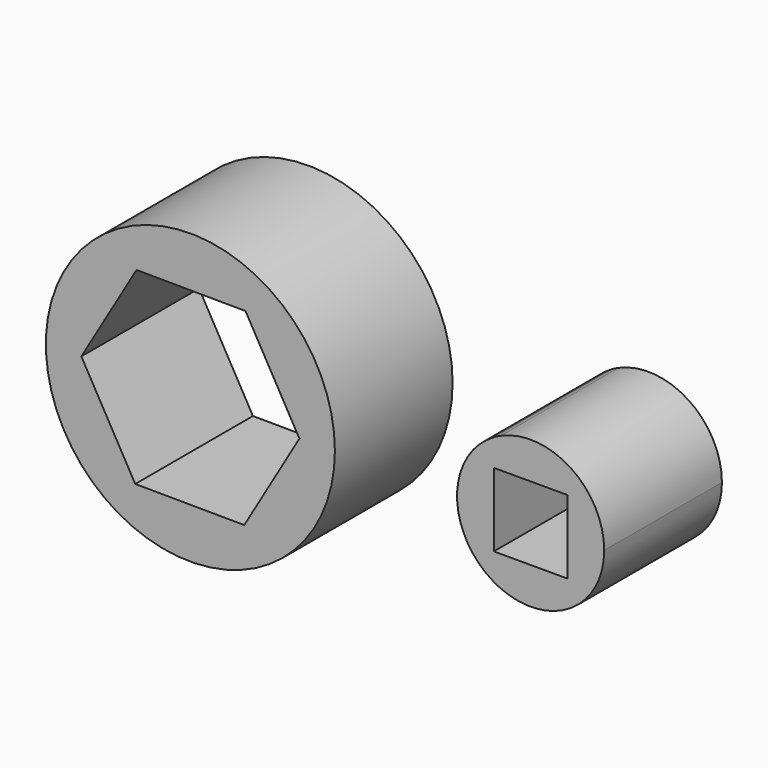
from build123d import *

# Parameters (mm, degrees)
F0_R     = 49.894553
F0_W     = 25.4
F0_H     = 25.4
F1_DEPTH = 50.8


with BuildPart() as f1:
    # F0 (on Front) → F1 (new body)
    with BuildSketch(Plane.XZ):
        Circle(F0_R)
        Polygon((-37.638698, 0.250998), (-18.601978, 32.721568), (19.03672, 32.47057), (37.638698, -0.250998), (18.601978, -32.721568), (-19.03672, -32.47057), align=None, mode=Mode.SUBTRACT)
        with BuildLine():
            ThreePointArc((107.26551, -23.257809), (131.364562, -21.265956), (142.87503, 0))
            ThreePointArc((142.87503, 0), (131.334774, 21.285382), (107.200423, 23.229129))
            add(Edge.make_bspline(
                [(104.747325, 21.981027), (105.56974, 22.395441), (106.387728, 22.812339), (107.200423, 23.229129)],
                knots=[73.557844, 73.557844, 73.557844, 73.557844, 76.166784, 76.166784, 76.166784, 76.166784], degree=3))
            ThreePointArc((104.747325, 21.981027), (92.075351, 0.12769), (104.526967, -21.851949))
            add(Edge.make_bspline(
                [(104.526967, -21.851949), (105.446682, -22.318293), (106.35998, -22.788152), (107.26551, -23.257809)],
                knots=[73.265343, 73.265343, 73.265343, 73.265343, 76.199575, 76.199575, 76.199575, 76.199575], degree=3))
        make_face()
        with Locations((117.47503, 0)):
            Rectangle(F0_W, F0_H, mode=Mode.SUBTRACT)
        with BuildLine():
            add(Edge.make_bspline(
                [(104.747325, 21.981027), (105.56974, 22.395441), (106.387728, 22.812339), (107.200423, 23.229129)],
                knots=[73.557844, 73.557844, 73.557844, 73.557844, 76.166784, 76.166784, 76.166784, 76.166784], degree=3))
            ThreePointArc((107.200423, 23.229129), (105.956956, 22.63833), (104.747325, 21.981027))
        make_face()
        with BuildLine():
            ThreePointArc((104.526967, -21.851949), (105.874921, -22.596404), (107.26551, -23.257809))
            add(Edge.make_bspline(
                [(104.526967, -21.851949), (105.446682, -22.318293), (106.35998, -22.788152), (107.26551, -23.257809)],
                knots=[73.265343, 73.265343, 73.265343, 73.265343, 76.199575, 76.199575, 76.199575, 76.199575], degree=3))
        make_face()
    extrude(amount=F1_DEPTH)


solid = f1.part
